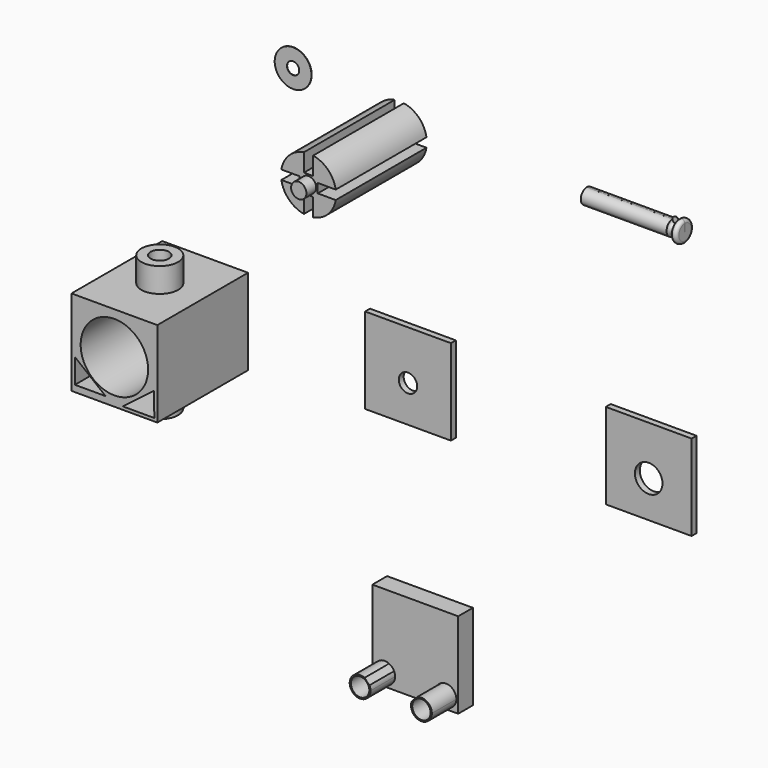
from build123d import *

# Parameters (mm, degrees)
F0_W      = 44.45
F0_H      = 44.45
F0_R      = 17.4625
F0_R_2    = 7.14375
F0_R_3    = 4.7625
F1_DEPTH  = 3.175
F2_DEPTH  = 3.175
F3_DEPTH  = 58.7375
F0_R_4    = 3.96875
F4_DEPTH  = 9.525
F5_D      = 7.9375
F5_DEPTH  = 6.35
F5_TIP    = 2.3846655818
F6_R      = 3.96875
F7_DEPTH  = 58.7375
F8_DEPTH  = 65.0875
F11_DEPTH = 0.15875
F6_R_2    = 9.525
F6_R_3    = 3.175
F12_DEPTH = 25.4
F13_R     = 9.525
F13_R_2   = 4.7625
F14_DEPTH = 12.7
F15_R     = 9.525
F15_R_2   = 4.7625
F16_DEPTH = 12.7


with BuildPart() as f1:
    # F0 (on Front) → F1 (new body)
    with BuildSketch(Plane.XZ):
        Rectangle(F0_W, F0_H)
        Circle(F0_R, mode=Mode.SUBTRACT)
        Circle(F0_R)
        with Locations((0, -3.175)):
            Circle(F0_R_2, mode=Mode.SUBTRACT)
        with Locations((0, -3.175)):
            Circle(F0_R_2)
        with Locations((0, -3.175)):
            Circle(F0_R_3, mode=Mode.SUBTRACT)
    extrude(amount=F1_DEPTH)


with BuildPart() as f2:
    # F0 (on Front) → F2 (new body)
    with BuildSketch(Plane.XZ):
        with Locations((124.6942952275, -2.9551434711)):
            Rectangle(F0_W, F0_H)
        with Locations((124.6942952275, -2.9551434711)):
            Circle(F0_R, mode=Mode.SUBTRACT)
        with Locations((124.6942952275, -2.9551434711)):
            Circle(F0_R)
        with Locations((124.6942952275, -6.1301434711)):
            Circle(F0_R_2, mode=Mode.SUBTRACT)
    extrude(amount=F2_DEPTH)


with BuildPart() as f3:
    # F0 (on Front) → F3 (new body)
    with BuildSketch(Plane.XZ):
        with Locations((-107.6092198491, -4.1792403042)):
            Rectangle(F0_W, F0_H)
        Polygon((-128.0641704798, -10.3413164616), (-112.1891704798, -23.0413164616), (-128.0641704798, -23.0413164616), align=None, mode=Mode.SUBTRACT)
        with Locations((-107.6092198491, -3.7869253576)):
            Circle(F0_R, mode=Mode.SUBTRACT)
        Polygon((-87.1469527483, -12.4511495233), (-86.9108438492, -24.8167403042), (-103.2713279128, -24.8167403042), align=None, mode=Mode.SUBTRACT)
    extrude(amount=F3_DEPTH)

    # F13 (on face) → F14 (join)
    with BuildSketch(Plane.XY.offset(18.0457596958)):
        with Locations((-107.6092198491, -29.36875)):
            Circle(F13_R)
        with Locations((-107.6092198491, -29.36875)):
            Circle(F13_R_2, mode=Mode.SUBTRACT)
    extrude(amount=F14_DEPTH)

    # F15 (on face) → F16 (join)
    with BuildSketch(Plane(origin=(0, 0, -26.4042403042), x_dir=(1, 0, 0), z_dir=(0, 0, -1))):
        with Locations((-107.6092198491, 29.3751)):
            Circle(F15_R)
        with Locations((-107.6092198491, 29.3751)):
            Circle(F15_R_2, mode=Mode.SUBTRACT)
    extrude(amount=F16_DEPTH)


with BuildPart() as f4:
    # F0 (on Front) → F4 (new body)
    with BuildSketch(Plane.XZ):
        with Locations((8.8766161352, -119.0805063963)):
            Rectangle(F0_W, F0_H)
        with BuildLine():
            ThreePointArc((-4.6883976895, -130.0772925715), (3.0430986571, -102.6211935284), (26.3391161352, -119.0805063963))
            ThreePointArc((26.3391161352, -119.0805063963), (25.3359290031, -124.9140238744), (22.44162996, -130.0772925715))
            ThreePointArc((22.44162996, -130.0772925715), (27.6382106573, -130.3947412943), (30.1491161352, -134.9555063963))
            ThreePointArc((30.1491161352, -134.9555063963), (23.5677987653, -140.2215848884), (19.8734023105, -132.6455202211))
            ThreePointArc((19.8734023105, -132.6455202211), (8.8766161352, -136.5430063963), (-2.12017004, -132.6455202211))
            ThreePointArc((-2.12017004, -132.6455202211), (-1.7323053727, -133.7716890264), (-1.6008838648, -134.9555063963))
            ThreePointArc((-1.6008838648, -134.9555063963), (-11.5591489667, -137.8421009183), (-4.6883976895, -130.0772925715))
        make_face(mode=Mode.SUBTRACT)
        with BuildLine():
            ThreePointArc((22.44162996, -130.0772925715), (25.3359290031, -124.9140238744), (26.3391161352, -119.0805063963))
            ThreePointArc((26.3391161352, -119.0805063963), (3.0430986571, -102.6211935284), (-4.6883976895, -130.0772925715))
            ThreePointArc((-4.6883976895, -130.0772925715), (-3.1817750133, -131.1388975448), (-2.12017004, -132.6455202211))
            ThreePointArc((-2.12017004, -132.6455202211), (8.8766161352, -136.5430063963), (19.8734023105, -132.6455202211))
            ThreePointArc((19.8734023105, -132.6455202211), (20.9350072838, -131.1388975448), (22.44162996, -130.0772925715))
        make_face()
        with Locations((8.8766161352, -122.2555063963)):
            Circle(F0_R_2, mode=Mode.SUBTRACT)
        with Locations((8.8766161352, -122.2555063963)):
            Circle(F0_R_2)
        with Locations((8.8766161352, -122.2555063963)):
            Circle(F0_R_3, mode=Mode.SUBTRACT)
        with Locations((8.8766161352, -122.2555063963)):
            Circle(F0_R_3)
        with Locations((8.8766161352, -122.2555063963)):
            Circle(F0_R_4, mode=Mode.SUBTRACT)
        with Locations((8.8766161352, -122.2555063963)):
            Circle(F0_R_4)
    extrude(amount=F4_DEPTH)

    # F5
    with Locations(Plane(origin=(0, 0, 0), x_dir=(1, 0, 0), z_dir=(0, 1, 0))):
        with Locations((8.8766161352, 122.2555063963)):
            Hole(F5_D / 2, depth=F5_DEPTH)
            with Locations((0, 0, -(F5_DEPTH + F5_TIP / 2))):  # 118° drill point
                Cone(0, F5_D / 2, F5_TIP, mode=Mode.SUBTRACT)

    # F0 (on Front) → F12 (join)
    with BuildSketch(Plane.XZ):
        with BuildLine():
            ThreePointArc((30.1491161352, -134.9555063963), (27.6382106573, -130.3947412943), (22.44162996, -130.0772925715))
            ThreePointArc((22.44162996, -130.0772925715), (21.2244683017, -131.4283585628), (19.8734023105, -132.6455202211))
            ThreePointArc((19.8734023105, -132.6455202211), (23.5677987653, -140.2215848884), (30.1491161352, -134.9555063963))
        make_face()
        with Locations((24.7516161352, -134.9555063963)):
            Circle(F0_R_3, mode=Mode.SUBTRACT)
        with BuildLine():
            ThreePointArc((-2.12017004, -132.6455202211), (-3.4712360312, -131.4283585628), (-4.6883976895, -130.0772925715))
            ThreePointArc((-4.6883976895, -130.0772925715), (-11.5591489667, -137.8421009183), (-1.6008838648, -134.9555063963))
            ThreePointArc((-1.6008838648, -134.9555063963), (-1.7323053727, -133.7716890264), (-2.12017004, -132.6455202211))
        make_face()
        with Locations((-6.9983838648, -134.9555063963)):
            Circle(F0_R_3, mode=Mode.SUBTRACT)
    extrude(amount=F12_DEPTH)


with BuildPart() as f7:
    # F6 (on Front) → F7 (new body)
    with BuildSketch(Plane.XZ):
        with BuildLine():
            Line((-4.6599195927, 102.753955853), (-4.6599195927, 93.4287908695))
            ThreePointArc((-4.6599195927, 93.4287908695), (3.0616185435, 97.4136677168), (7.0464953908, 105.135205853))
            Line((7.0464953908, 105.135205853), (-2.2786695927, 105.135205853))
            Line((-2.2786695927, 105.135205853), (-2.2786695927, 109.897705853))
            Line((-2.2786695927, 109.897705853), (7.0464953908, 109.897705853))
            ThreePointArc((7.0464953908, 109.897705853), (3.0616185435, 117.6192439892), (-4.6599195927, 121.6041208365))
            Line((-4.6599195927, 121.6041208365), (-4.6599195927, 112.278955853))
            Line((-4.6599195927, 112.278955853), (-9.4224195927, 112.278955853))
            Line((-9.4224195927, 112.278955853), (-9.4224195927, 121.6041208365))
            ThreePointArc((-9.4224195927, 121.6041208365), (-17.1439577289, 117.6192439892), (-21.1288345762, 109.897705853))
            Line((-21.1288345762, 109.897705853), (-11.8036695927, 109.897705853))
            Line((-11.8036695927, 109.897705853), (-11.8036695927, 105.135205853))
            Line((-11.8036695927, 105.135205853), (-21.1288345762, 105.135205853))
            ThreePointArc((-21.1288345762, 105.135205853), (-17.1439577289, 97.4136677168), (-9.4224195927, 93.4287908695))
            Line((-9.4224195927, 93.4287908695), (-9.4224195927, 102.753955853))
            Line((-9.4224195927, 102.753955853), (-4.6599195927, 102.753955853))
        make_face()
        with Locations((-7.0411695927, 107.516455853)):
            Circle(F6_R, mode=Mode.SUBTRACT)
        with Locations((-7.0411695927, 107.516455853)):
            Circle(F6_R)
    extrude(amount=F7_DEPTH)

    # F6 (on Front) → F8 (join)
    with BuildSketch(Plane.XZ):
        with Locations((-7.0411695927, 107.516455853)):
            Circle(F6_R)
    extrude(amount=F8_DEPTH)


with BuildPart() as f9:
    # F6 (on Front) → F9 (revolve)
    with BuildSketch(Plane.XZ):
        with BuildLine():
            Line((90.1279747486, 114.1724333763), (90.1279747486, 110.2036833763))
            Line((90.1279747486, 110.2036833763), (140.9279747486, 110.2036833763))
            Line((140.9279747486, 110.2036833763), (140.9279747486, 114.1724333763))
            ThreePointArc((140.9279747486, 114.1724333763), (139.3404747486, 112.5849333763), (137.7529747486, 114.1724333763))
            ThreePointArc((137.7529747486, 114.1724333763), (136.1654747486, 112.5849333763), (134.5779747486, 114.1724333763))
            Line((134.5779747486, 114.1724333763), (90.1279747486, 114.1724333763))
        make_face()
    revolve(axis=Axis((115.5279747486, 0, 110.2036833763), (1, 0, 0)))


with BuildPart() as f10:
    # F6 (on Front) → F10 (revolve)
    with BuildSketch(Plane.XZ):
        with BuildLine():
            ThreePointArc((137.7529747486, 114.1724333763), (139.3404747486, 112.5849333763), (140.9279747486, 114.1724333763))
            ThreePointArc((140.9279747486, 114.1724333763), (139.3404747486, 115.7599333763), (137.7529747486, 114.1724333763))
        make_face()
    revolve(axis=Axis((115.5279747486, 0, 110.2036833763), (1, 0, 0)))


with BuildPart() as f11:
    # F6 (on Front) → F11 (new body)
    with BuildSketch(Plane.XZ):
        with BuildLine():
            Line((-4.6599195927, 102.753955853), (-4.6599195927, 93.4287908695))
            ThreePointArc((-4.6599195927, 93.4287908695), (3.0616185435, 97.4136677168), (7.0464953908, 105.135205853))
            Line((7.0464953908, 105.135205853), (-2.2786695927, 105.135205853))
            Line((-2.2786695927, 105.135205853), (-2.2786695927, 109.897705853))
            Line((-2.2786695927, 109.897705853), (7.0464953908, 109.897705853))
            ThreePointArc((7.0464953908, 109.897705853), (3.0616185435, 117.6192439892), (-4.6599195927, 121.6041208365))
            Line((-4.6599195927, 121.6041208365), (-4.6599195927, 112.278955853))
            Line((-4.6599195927, 112.278955853), (-9.4224195927, 112.278955853))
            Line((-9.4224195927, 112.278955853), (-9.4224195927, 121.6041208365))
            ThreePointArc((-9.4224195927, 121.6041208365), (-17.1439577289, 117.6192439892), (-21.1288345762, 109.897705853))
            Line((-21.1288345762, 109.897705853), (-11.8036695927, 109.897705853))
            Line((-11.8036695927, 109.897705853), (-11.8036695927, 105.135205853))
            Line((-11.8036695927, 105.135205853), (-21.1288345762, 105.135205853))
            ThreePointArc((-21.1288345762, 105.135205853), (-17.1439577289, 97.4136677168), (-9.4224195927, 93.4287908695))
            Line((-9.4224195927, 93.4287908695), (-9.4224195927, 102.753955853))
            Line((-9.4224195927, 102.753955853), (-4.6599195927, 102.753955853))
        make_face()
        with Locations((-7.0411695927, 107.516455853)):
            Circle(F6_R, mode=Mode.SUBTRACT)
    extrude(amount=F11_DEPTH)


with BuildPart() as f11b:
    # F6 (on Front) → F11, piece 2 (new body)
    with BuildSketch(Plane.XZ):
        with BuildLine():
            Line((90.1279747486, 114.1724333763), (90.1279747486, 110.2036833763))
            Line((90.1279747486, 110.2036833763), (140.9279747486, 110.2036833763))
            Line((140.9279747486, 110.2036833763), (140.9279747486, 114.1724333763))
            ThreePointArc((140.9279747486, 114.1724333763), (139.3404747486, 112.5849333763), (137.7529747486, 114.1724333763))
            ThreePointArc((137.7529747486, 114.1724333763), (136.1654747486, 112.5849333763), (134.5779747486, 114.1724333763))
            Line((134.5779747486, 114.1724333763), (90.1279747486, 114.1724333763))
        make_face()
        with BuildLine():
            ThreePointArc((137.7529747486, 114.1724333763), (139.3404747486, 112.5849333763), (140.9279747486, 114.1724333763))
            ThreePointArc((140.9279747486, 114.1724333763), (139.3404747486, 115.7599333763), (137.7529747486, 114.1724333763))
        make_face()
        with BuildLine():
            ThreePointArc((137.7529747486, 114.1724333763), (136.1654747486, 115.7599333763), (134.5779747486, 114.1724333763))
            ThreePointArc((134.5779747486, 114.1724333763), (136.1654747486, 112.5849333763), (137.7529747486, 114.1724333763))
        make_face()
    extrude(amount=F11_DEPTH)


with BuildPart() as f11c:
    # F6 (on Front) → F11, piece 3 (new body)
    with BuildSketch(Plane.XZ):
        with Locations((-61.9147717953, 119.0292090178)):
            Circle(F6_R_2)
        with Locations((-61.9147717953, 119.0292090178)):
            Circle(F6_R_3, mode=Mode.SUBTRACT)
    extrude(amount=F11_DEPTH)


solid = Compound([f1.part, f2.part, f3.part, f4.part, f7.part, f9.part, f10.part, f11.part, f11b.part, f11c.part])
